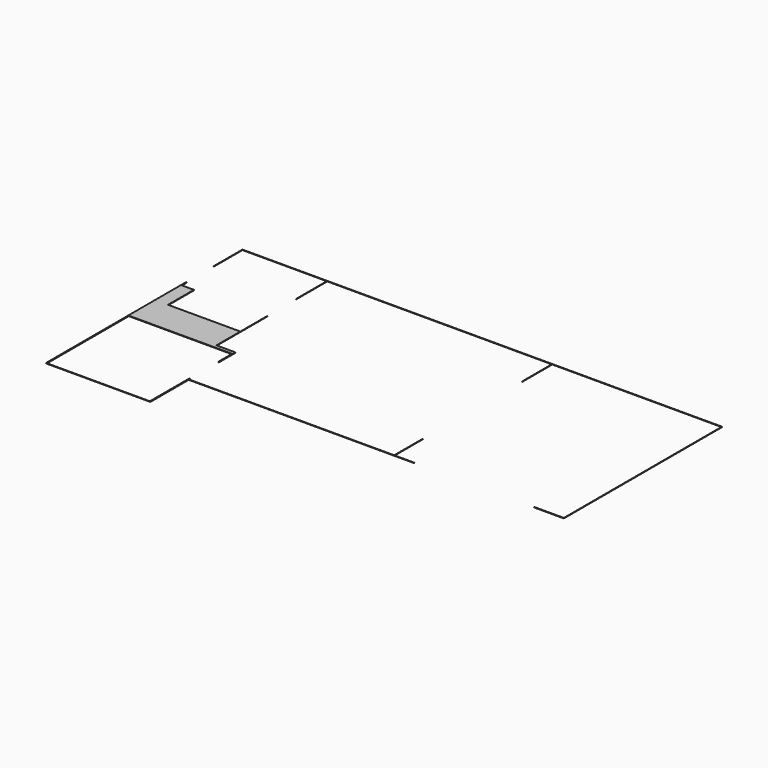
from build123d import *

# Parameters (mm, degrees)
F0_W     = 0.01
F0_H     = 0.01
F1_DEPTH = 1


with BuildPart() as f1:
    # F0 (on Top) → F1 (new body)
    with BuildSketch(Plane.XY):
        Polygon((104.217418, 83), (104.217418, 11), (-307.782582, 11), (-307.782582, 14), (-308.782582, 14), (-308.782582, -84.99), (-515.782582, -84.99), (-515.782582, 121), (-345.782582, 121), (-308.782582, 121), (-308.782582, 87), (-307.782582, 87), (-307.782582, 128), (-345.772582, 128), (-345.772582, 256), (-345.782582, 256), (-345.782582, 188), (-490.782582, 188), (-490.782582, 253), (-515.782582, 253), (-515.782582, 266), (-516.782582, 266), (-516.782582, 252), (-516.782582, 240.872535), (-516.782582, 240.870627), (-516.782582, 233), (-516.782582, -85), (-308.782582, -85), (-307.782582, -85), (-307.782582, 10.99), (104.227418, 10.99), (145.227418, 10.99), (145.227418, 11), (104.227418, 11), (104.227418, 83), align=None)
        Polygon((-346.762582, 407), (104.217418, 407), (104.217418, 331), (104.227418, 331), (104.227418, 407), (444.217418, 407), (444.217418, 407.01), (104.227418, 407.01), (-346.772582, 407.01), (-516.782582, 407.01), (-516.782582, 334), (-516.772582, 334), (-516.772582, 407), (-346.772582, 407), (-346.772582, 329), (-346.762582, 329), (-346.762582, 384.444669), align=None)
        with Locations((444.222418, 407.005)):
            Rectangle(F0_W, F0_H)
        Polygon((444.227418, 407), (444.217418, 407), (444.217418, 11), (384.227418, 11), (384.227418, 10.99), (444.227418, 10.99), align=None)
    extrude(amount=F1_DEPTH)


solid = f1.part
